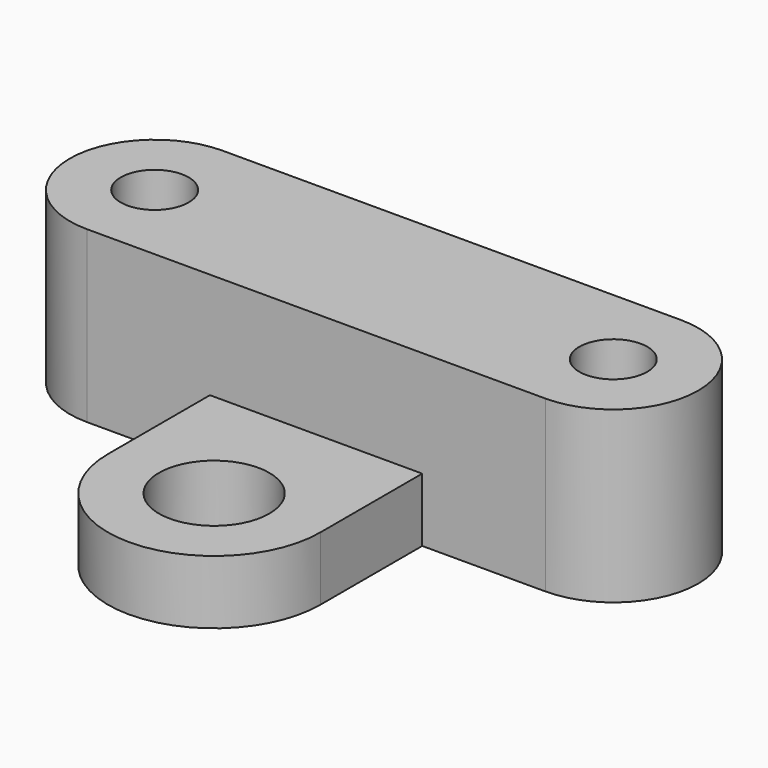
from build123d import *

# Parameters (mm, degrees)
F0_R     = 2.6
F0_R_2   = 1.6
F1_DEPTH = 3
F2_R     = 1.6
F3_DEPTH = 5
F5_DEPTH = 3


with BuildPart() as f1:
    # F0 (on Top) → F1 (new body)
    with BuildSketch(Plane.XY):
        with BuildLine():
            Line((-5, 6), (-5, 0))
            ThreePointArc((-5, 0), (0, -5), (5, 0))
            Line((5, 0), (5, 6))
            Line((5, 6), (10.8, 6))
            ThreePointArc((10.8, 6), (14.8, 10), (10.8, 14))
            Line((10.8, 14), (0, 14))
            Line((0, 14), (-10.8, 14))
            ThreePointArc((-10.8, 14), (-14.8, 10), (-10.8, 6))
            Line((-10.8, 6), (-5, 6))
        make_face()
        Circle(F0_R, mode=Mode.SUBTRACT)
        with Locations((-10.8, 10)):
            Circle(F0_R_2, mode=Mode.SUBTRACT)
        with Locations((10.8, 10)):
            Circle(F0_R_2, mode=Mode.SUBTRACT)
    extrude(amount=F1_DEPTH)

    # F2 (on face) → F3 (join)
    with BuildSketch(Plane.XY.offset(3)):
        with BuildLine():
            ThreePointArc((10.8, 6), (14.8, 10), (10.8, 14))
            Line((10.8, 14), (-10.8, 14))
            ThreePointArc((-10.8, 14), (-14.8, 10), (-10.8, 6))
            Line((-10.8, 6), (-5, 6))
            Line((-5, 6), (5, 6))
            Line((5, 6), (10.8, 6))
        make_face()
        with Locations((-10.8, 10)):
            Circle(F2_R, mode=Mode.SUBTRACT)
        with Locations((10.8, 10)):
            Circle(F2_R, mode=Mode.SUBTRACT)
    extrude(amount=F3_DEPTH)

    # F4 (on face) → F5 (cut)
    with BuildSketch(Plane(origin=(0, 0, 0), x_dir=(1, 0, 0), z_dir=(0, 0, -1))):
        Polygon((9.067949, -13), (12.532051, -13), (14.264102, -10), (12.532051, -7), (9.067949, -7), (7.335898, -10), align=None)
        Polygon((-12.532051, -13), (-9.067949, -13), (-7.335898, -10), (-9.067949, -7), (-12.532051, -7), (-14.264102, -10), align=None)
    extrude(amount=-F5_DEPTH, mode=Mode.SUBTRACT)


solid = f1.part
